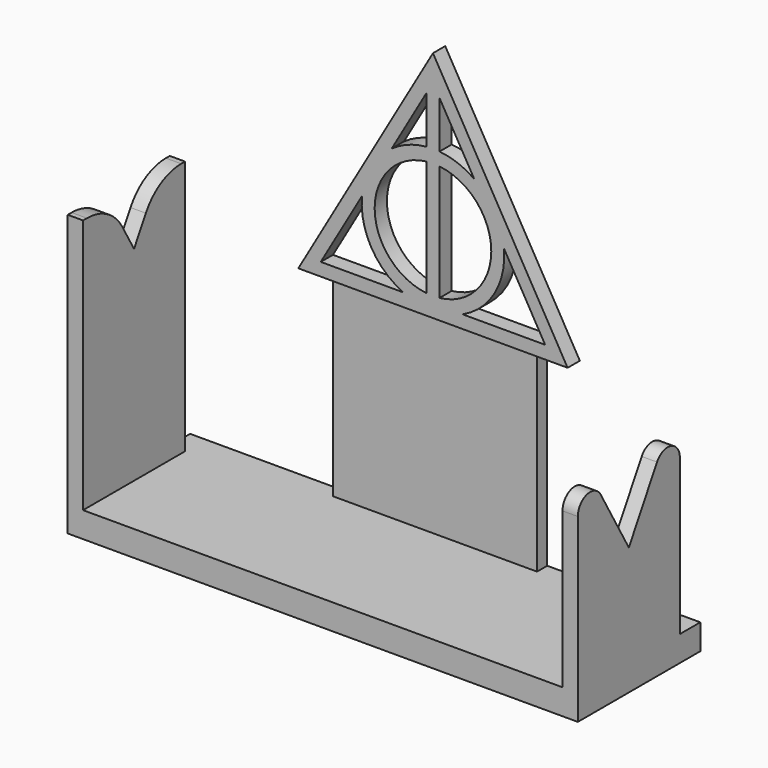
from build123d import *

# Parameters (mm, degrees)
F1_DEPTH  = 3
F2_W      = 20
F2_H      = 40
F3_DEPTH  = 2.5
F5_DEPTH  = 30
F6_W      = 3
F6_H      = 25
F7_DEPTH  = 50
F9_DEPTH  = 25
F11_DEPTH = 10
F12_R     = 10
F13_R     = 3


with BuildPart() as f1:
    # F0 (on Front) → F1 (new body)
    with BuildSketch(Plane.XZ):
        Polygon((-26.3964543073, -2.54), (26.3964543073, -2.54), (0, 43.18), align=None)
        with BuildLine():
            Line((-5.8198711326, 0), (-21.9970452561, 0))
            Line((-21.9970452561, 0), (-13.9084581944, 14.0098437524))
            ThreePointArc((-13.9084581944, 14.0098437524), (-12.0983748909, 5.715), (-5.8198711326, 0))
        make_face(mode=Mode.SUBTRACT)
        with BuildLine():
            ThreePointArc((-1.27, 1.3407746743), (-11.43, 12.7), (-1.27, 24.0592253257))
            Line((-1.27, 24.0592253257), (-1.27, 1.3407746743))
        make_face(mode=Mode.SUBTRACT)
        with BuildLine():
            Line((13.9084581944, 14.0098437524), (21.9970452561, 0))
            Line((21.9970452561, 0), (5.8198711326, 0))
            ThreePointArc((5.8198711326, 0), (12.0983748909, 5.715), (13.9084581944, 14.0098437524))
        make_face(mode=Mode.SUBTRACT)
        with BuildLine():
            Line((1.27, 1.3407746743), (1.27, 24.0592253257))
            ThreePointArc((1.27, 24.0592253257), (11.43, 12.7), (1.27, 1.3407746743))
        make_face(mode=Mode.SUBTRACT)
        with BuildLine():
            Line((-8.0885870618, 24.0901562476), (-1.27, 35.9002954744))
            Line((-1.27, 35.9002954744), (-1.27, 26.6121529606))
            ThreePointArc((-1.27, 26.6121529606), (-4.8462258308, 25.8024804979), (-8.0885870618, 24.0901562476))
        make_face(mode=Mode.SUBTRACT)
        with BuildLine():
            Line((1.27, 26.6121529606), (1.27, 35.9002954744))
            Line((1.27, 35.9002954744), (8.0885870618, 24.0901562476))
            ThreePointArc((8.0885870618, 24.0901562476), (4.8462258308, 25.8024804979), (1.27, 26.6121529606))
        make_face(mode=Mode.SUBTRACT)
    extrude(amount=F1_DEPTH)

    # F2 (on Front) → F3 (join)
    with BuildSketch(Plane.XZ):
        with Locations((-10, -20)):
            Rectangle(F2_W, F2_H)
        with Locations((10, -20)):
            Rectangle(F2_W, F2_H)
    extrude(amount=F3_DEPTH)

    # F4 (on Front) → F5 (join)
    with BuildSketch(Plane.XZ):
        Polygon((20, -40), (-20, -40), (-50, -40), (-50, -45), (50, -45), (50, -40), align=None)
    extrude(amount=F5_DEPTH)

    # F6 (on face) → F7 (join)
    with BuildSketch(Plane.XY.offset(-40)):
        with Locations((-48.5, -17.5)):
            Rectangle(F6_W, F6_H)
        with Locations((48.5, -17.5)):
            Rectangle(F6_W, F6_H)
    extrude(amount=F7_DEPTH)

    # F8 (on face) → F9 (cut)
    with BuildSketch(Plane(origin=(-50, 0, 0), x_dir=(0, -1, 0), z_dir=(-1, 0, 0))):
        Polygon((23.2735026919, 10), (11.7264973081, 10), (17.5, 0), align=None)
    extrude(amount=-F9_DEPTH, mode=Mode.SUBTRACT)

    # F10 (on face) → F11 (cut)
    with BuildSketch(Plane.YZ.offset(50)):
        Polygon((-17.5, 10), (-34.8205080757, 10), (-17.5, -20), align=None)
        Polygon((-17.5, 10), (-17.5, -20), (-0.1794919243, 10), align=None)
    extrude(amount=-F11_DEPTH, mode=Mode.SUBTRACT)

    # F12
    f12_edges = [f1.edges().sort_by_distance(p)[0] for p in [
        (-48.5, -11.726497, 10),
        (-48.5, -23.273503, 10),
    ]]
    fillet(f12_edges, radius=F12_R)

    # F13
    f13_edges = [f1.edges().sort_by_distance(p)[0] for p in [
        (48.5, -30, 1.650635),
        (48.5, -5, 1.650635),
    ]]
    fillet(f13_edges, radius=F13_R)


solid = f1.part
